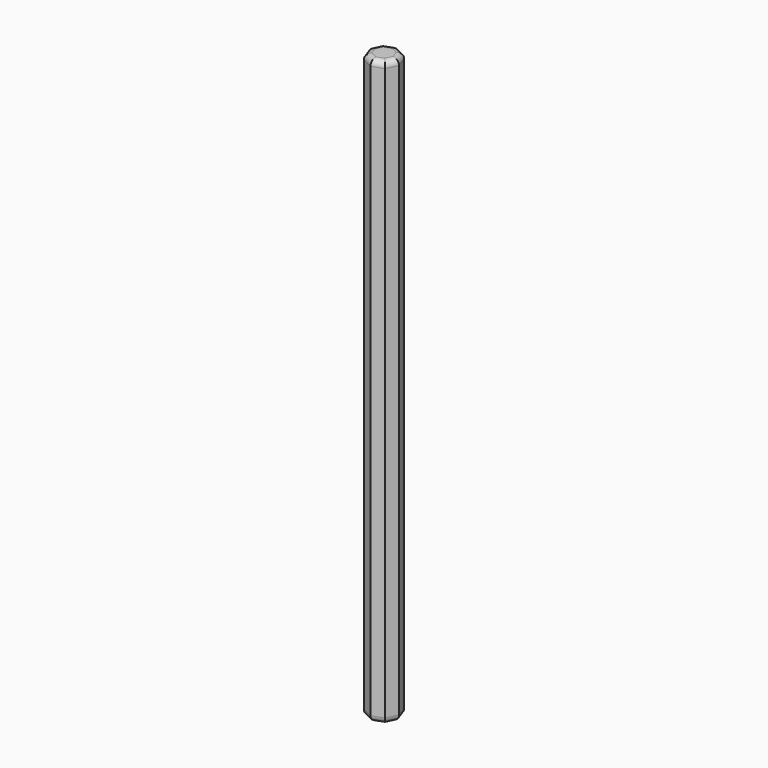
from build123d import *

# Parameters (mm, degrees)
F0_R     = 1
F1_DEPTH = 100
F2_R     = 1
F3_DEPTH = 25


with BuildPart() as f1:
    # F0 (on Top) → F1 (new body)
    with BuildSketch(Plane.XY):
        Polygon((2.701523, -0.15526), (2.02005, 1.80048), (0.15526, 2.701523), (-1.80048, 2.02005), (-2.701523, 0.15526), (-2.02005, -1.80048), (-0.15526, -2.701523), (1.80048, -2.02005), align=None)
        Circle(F0_R, mode=Mode.SUBTRACT)
        Circle(F0_R)
    extrude(amount=F1_DEPTH)

    # F2
    f2_edges = [f1.edges().sort_by_distance(p)[0] for p in [
        (0.82261, -2.360787, 0),
        (2.251001, -1.087655, 0),
        (2.360787, 0.82261, 0),
        (1.087655, 2.251001, 0),
        (-0.82261, 2.360787, 0),
        (-2.251001, 1.087655, 0),
        (-2.360787, -0.82261, 0),
        (-1.087655, -2.251001, 0),
        (0.82261, -2.360787, 100),
        (2.251001, -1.087655, 100),
        (2.360787, 0.82261, 100),
        (1.087655, 2.251001, 100),
        (-0.82261, 2.360787, 100),
        (-2.251001, 1.087655, 100),
        (-2.360787, -0.82261, 100),
        (-1.087655, -2.251001, 100),
    ]]
    fillet(f2_edges, radius=F2_R)

    # F0 (on Top) → F3 (cut)
    with BuildSketch(Plane.XY):
        Circle(F0_R)
    extrude(amount=F3_DEPTH, mode=Mode.SUBTRACT)


solid = f1.part
